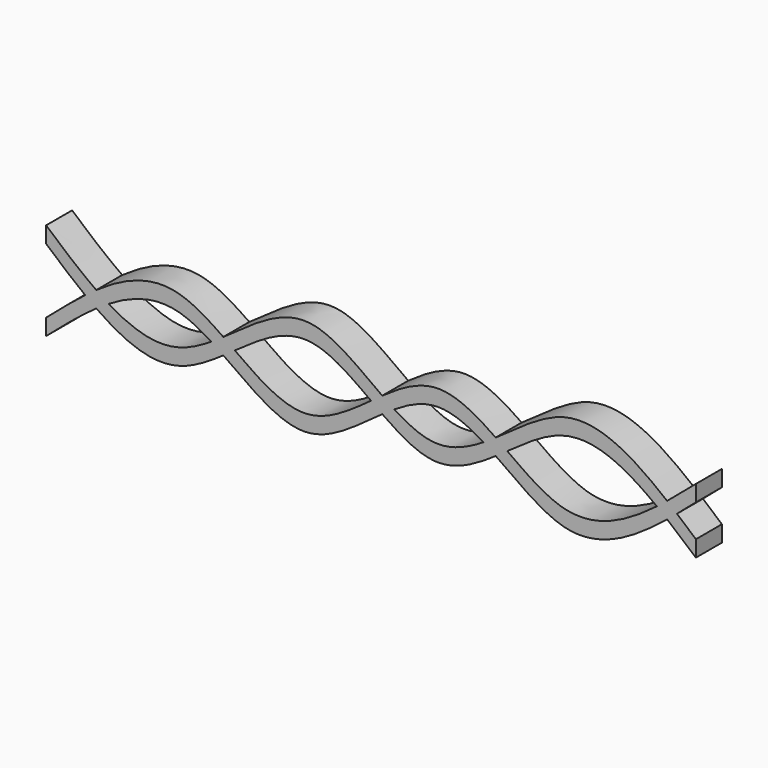
from build123d import *

# Parameters (mm, degrees)
F1_DEPTH = 25.4


with BuildPart() as f1:
    # F0 (on Front) → F1 (new body)
    with BuildSketch(Plane.XZ):
        with BuildLine():
            add(Edge.make_bspline(
                [(-214.7751562029, -6.35), (-211.5570208021, -4.093973735), (-208.3388854013, -1.9667404666), (-205.1207500005, 0)],
                knots=[0.0772142594, 0.0772142594, 0.0772142594, 0.0772142594, 0.0962189961, 0.0962189961, 0.0962189961, 0.0962189961], degree=3))
            add(Edge.make_bspline(
                [(-214.7751562029, -6.35), (-193.9834374686, -20.9257271579), (-160.8792672429, -35.5732524158), (-127.7750970172, -14.9202237117), (-115.4626455258, -6.35)],
                knots=[0.0772142594, 0.0772142594, 0.0772142594, 0.0772142594, 0.2, 0.2727113277, 0.2727113277, 0.2727113277, 0.2727113277], degree=3))
            add(Edge.make_bspline(
                [(-124.933999452, 0), (-121.7768814766, -2.0133370092), (-118.6197635012, -4.1524516602), (-115.4626455258, -6.35)],
                knots=[0.2540669302, 0.2540669302, 0.2540669302, 0.2540669302, 0.2727113277, 0.2727113277, 0.2727113277, 0.2727113277], degree=3))
            add(Edge.make_bspline(
                [(-205.1207500005, 0), (-187.547166667, -10.7399699454), (-160.8182498175, -19.7958733422), (-134.089332968, -5.8384805203), (-124.933999452, 0)],
                knots=[0.0962189961, 0.0962189961, 0.0962189961, 0.0962189961, 0.2, 0.2540669302, 0.2540669302, 0.2540669302, 0.2540669302], degree=3))
        make_face()
        with BuildLine():
            add(Edge.make_bspline(
                [(-214.7751562029, 6.35), (-193.9834374686, 20.9257271579), (-160.8792672429, 35.5732524158), (-127.7750970172, 14.9202237117), (-115.4626455258, 6.35)],
                knots=[0.0772142594, 0.0772142594, 0.0772142594, 0.0772142594, 0.2, 0.2727113277, 0.2727113277, 0.2727113277, 0.2727113277], degree=3))
            add(Edge.make_bspline(
                [(-214.7751562029, 6.35), (-211.5570208021, 4.093973735), (-208.3388854013, 1.9667404666), (-205.1207500005, 0)],
                knots=[0.0772142594, 0.0772142594, 0.0772142594, 0.0772142594, 0.0962189961, 0.0962189961, 0.0962189961, 0.0962189961], degree=3))
            add(Edge.make_bspline(
                [(-205.1207500005, 0), (-187.547166667, 10.7399699454), (-160.8182498175, 19.7958733422), (-134.089332968, 5.8384805203), (-124.933999452, 0)],
                knots=[0.0962189961, 0.0962189961, 0.0962189961, 0.0962189961, 0.2, 0.2540669302, 0.2540669302, 0.2540669302, 0.2540669302], degree=3))
            add(Edge.make_bspline(
                [(-124.933999452, 0), (-121.7768814766, 2.0133370092), (-118.6197635012, 4.1524516602), (-115.4626455258, 6.35)],
                knots=[0.2540669302, 0.2540669302, 0.2540669302, 0.2540669302, 0.2727113277, 0.2727113277, 0.2727113277, 0.2727113277], degree=3))
        make_face()
        with BuildLine():
            add(Edge.make_bspline(
                [(-223.4234286462, 0), (-220.5406711651, 2.2048234714), (-217.657913684, 4.3290854694), (-214.7751562029, 6.35)],
                knots=[0.0601901011, 0.0601901011, 0.0601901011, 0.0601901011, 0.0772142594, 0.0772142594, 0.0772142594, 0.0772142594], degree=3))
            add(Edge.make_bspline(
                [(-223.4234286462, 0), (-220.5406711651, -2.2048234714), (-217.657913684, -4.3290854694), (-214.7751562029, -6.35)],
                knots=[0.0601901011, 0.0601901011, 0.0601901011, 0.0601901011, 0.0772142594, 0.0772142594, 0.0772142594, 0.0772142594], degree=3))
            add(Edge.make_bspline(
                [(-214.7751562029, -6.35), (-211.5570208021, -4.093973735), (-208.3388854013, -1.9667404666), (-205.1207500005, 0)],
                knots=[0.0772142594, 0.0772142594, 0.0772142594, 0.0772142594, 0.0962189961, 0.0962189961, 0.0962189961, 0.0962189961], degree=3))
            add(Edge.make_bspline(
                [(-214.7751562029, 6.35), (-211.5570208021, 4.093973735), (-208.3388854013, 1.9667404666), (-205.1207500005, 0)],
                knots=[0.0772142594, 0.0772142594, 0.0772142594, 0.0772142594, 0.0962189961, 0.0962189961, 0.0962189961, 0.0962189961], degree=3))
        make_face()
        with BuildLine():
            add(Edge.make_bspline(
                [(-254, -25.4), (-243.8078095487, -16.5976537012), (-233.6156190975, -7.7953074024), (-223.4234286462, 0)],
                knots=[0, 0, 0, 0, 0.0601901011, 0.0601901011, 0.0601901011, 0.0601901011], degree=3))
            Line((-254, -25.4), (-254, -38.1))
            add(Edge.make_bspline(
                [(-254, -38.1), (-240.9250520676, -26.807999513), (-227.8501041353, -15.5159990259), (-214.7751562029, -6.35)],
                knots=[0, 0, 0, 0, 0.0772142594, 0.0772142594, 0.0772142594, 0.0772142594], degree=3))
            add(Edge.make_bspline(
                [(-223.4234286462, 0), (-220.5406711651, -2.2048234714), (-217.657913684, -4.3290854694), (-214.7751562029, -6.35)],
                knots=[0.0601901011, 0.0601901011, 0.0601901011, 0.0601901011, 0.0772142594, 0.0772142594, 0.0772142594, 0.0772142594], degree=3))
        make_face()
        with BuildLine():
            add(Edge.make_bspline(
                [(-254, 25.4), (-243.8078095487, 16.5976537012), (-233.6156190975, 7.7953074024), (-223.4234286462, 0)],
                knots=[0, 0, 0, 0, 0.0601901011, 0.0601901011, 0.0601901011, 0.0601901011], degree=3))
            add(Edge.make_bspline(
                [(-223.4234286462, 0), (-220.5406711651, 2.2048234714), (-217.657913684, 4.3290854694), (-214.7751562029, 6.35)],
                knots=[0.0601901011, 0.0601901011, 0.0601901011, 0.0601901011, 0.0772142594, 0.0772142594, 0.0772142594, 0.0772142594], degree=3))
            add(Edge.make_bspline(
                [(-254, 38.1), (-240.9250520676, 26.807999513), (-227.8501041353, 15.5159990259), (-214.7751562029, 6.35)],
                knots=[0, 0, 0, 0, 0.0772142594, 0.0772142594, 0.0772142594, 0.0772142594], degree=3))
            Line((-254, 38.1), (-254, 25.4))
        make_face()
        with BuildLine():
            add(Edge.make_bspline(
                [(-115.4626455258, -6.35), (-112.4696958715, -4.2667229116), (-109.4767462173, -2.1309311697), (-106.4837965631, 0)],
                knots=[0.2727113277, 0.2727113277, 0.2727113277, 0.2727113277, 0.2903862272, 0.2903862272, 0.2903862272, 0.2903862272], degree=3))
            add(Edge.make_bspline(
                [(-115.4626455258, -6.35), (-93.9084303505, -21.3530597976), (-52.4828246794, -55.4224209823), (-11.0572190083, -20.3940403676), (8.8141714876, -6.35)],
                knots=[0.2727113277, 0.2727113277, 0.2727113277, 0.2727113277, 0.4, 0.5173507313, 0.5173507313, 0.5173507313, 0.5173507313], degree=3))
            add(Edge.make_bspline(
                [(0, 0), (2.9380571625, -2.1367688455), (5.8761143251, -4.273537691), (8.8141714876, -6.35)],
                knots=[0.5, 0.5, 0.5, 0.5, 0.5173507313, 0.5173507313, 0.5173507313, 0.5173507313], degree=3))
            add(Edge.make_bspline(
                [(-106.4837965631, 0), (-87.9225310421, -13.2153172678), (-52.4279321877, -38.1294052274), (-16.9333333333, -12.3151515152), (0, 0)],
                knots=[0.2903862272, 0.2903862272, 0.2903862272, 0.2903862272, 0.4, 0.5, 0.5, 0.5, 0.5], degree=3))
        make_face()
        with BuildLine():
            add(Edge.make_bspline(
                [(-115.4626455258, 6.35), (-112.4696958715, 4.2667229116), (-109.4767462173, 2.1309311697), (-106.4837965631, 0)],
                knots=[0.2727113277, 0.2727113277, 0.2727113277, 0.2727113277, 0.2903862272, 0.2903862272, 0.2903862272, 0.2903862272], degree=3))
            add(Edge.make_bspline(
                [(-124.933999452, 0), (-121.7768814766, 2.0133370092), (-118.6197635012, 4.1524516602), (-115.4626455258, 6.35)],
                knots=[0.2540669302, 0.2540669302, 0.2540669302, 0.2540669302, 0.2727113277, 0.2727113277, 0.2727113277, 0.2727113277], degree=3))
            add(Edge.make_bspline(
                [(-124.933999452, 0), (-121.7768814766, -2.0133370092), (-118.6197635012, -4.1524516602), (-115.4626455258, -6.35)],
                knots=[0.2540669302, 0.2540669302, 0.2540669302, 0.2540669302, 0.2727113277, 0.2727113277, 0.2727113277, 0.2727113277], degree=3))
            add(Edge.make_bspline(
                [(-115.4626455258, -6.35), (-112.4696958715, -4.2667229116), (-109.4767462173, -2.1309311697), (-106.4837965631, 0)],
                knots=[0.2727113277, 0.2727113277, 0.2727113277, 0.2727113277, 0.2903862272, 0.2903862272, 0.2903862272, 0.2903862272], degree=3))
        make_face()
        with BuildLine():
            add(Edge.make_bspline(
                [(-115.4626455258, 6.35), (-93.9084303505, 21.3530597976), (-52.4828246794, 55.4224209823), (-11.0572190083, 20.3940403676), (8.8141714876, 6.35)],
                knots=[0.2727113277, 0.2727113277, 0.2727113277, 0.2727113277, 0.4, 0.5173507313, 0.5173507313, 0.5173507313, 0.5173507313], degree=3))
            add(Edge.make_bspline(
                [(-115.4626455258, 6.35), (-112.4696958715, 4.2667229116), (-109.4767462173, 2.1309311697), (-106.4837965631, 0)],
                knots=[0.2727113277, 0.2727113277, 0.2727113277, 0.2727113277, 0.2903862272, 0.2903862272, 0.2903862272, 0.2903862272], degree=3))
            add(Edge.make_bspline(
                [(-106.4837965631, 0), (-87.9225310421, 13.2153172678), (-52.4279321877, 38.1294052274), (-16.9333333333, 12.3151515152), (0, 0)],
                knots=[0.2903862272, 0.2903862272, 0.2903862272, 0.2903862272, 0.4, 0.5, 0.5, 0.5, 0.5], degree=3))
            add(Edge.make_bspline(
                [(0, 0), (2.9380571625, 2.1367688455), (5.8761143251, 4.273537691), (8.8141714876, 6.35)],
                knots=[0.5, 0.5, 0.5, 0.5, 0.5173507313, 0.5173507313, 0.5173507313, 0.5173507313], degree=3))
        make_face()
        with BuildLine():
            add(Edge.make_bspline(
                [(8.8141714876, -6.35), (11.9399480407, -4.1408676244), (15.0657245938, -1.9999942239), (18.1915011468, 0)],
                knots=[0.5173507313, 0.5173507313, 0.5173507313, 0.5173507313, 0.5358100416, 0.5358100416, 0.5358100416, 0.5358100416], degree=3))
            add(Edge.make_bspline(
                [(8.8141714876, -6.35), (22.8094476584, -16.2411157495), (52.3589401975, -34.2359377937), (81.9084327366, -17.0725968822), (97.4626491049, -6.35)],
                knots=[0.5173507313, 0.5173507313, 0.5173507313, 0.5173507313, 0.6, 0.6918556085, 0.6918556085, 0.6918556085, 0.6918556085], degree=3))
            add(Edge.make_bspline(
                [(87.8360827577, 0), (91.0449382067, -1.9976776152), (94.2537936558, -4.1379140537), (97.4626491049, -6.35)],
                knots=[0.6729056747, 0.6729056747, 0.6729056747, 0.6729056747, 0.6918556085, 0.6918556085, 0.6918556085, 0.6918556085], degree=3))
            add(Edge.make_bspline(
                [(18.1915011468, 0), (29.0610007646, -6.9547314348), (52.2758613015, -18.1701405375), (75.4907218384, -7.6856223508), (87.8360827577, 0)],
                knots=[0.5358100416, 0.5358100416, 0.5358100416, 0.5358100416, 0.6, 0.6729056747, 0.6729056747, 0.6729056747, 0.6729056747], degree=3))
        make_face()
        with BuildLine():
            add(Edge.make_bspline(
                [(8.8141714876, 6.35), (22.8094476584, 16.2411157495), (52.3589401975, 34.2359377937), (81.9084327366, 17.0725968822), (97.4626491049, 6.35)],
                knots=[0.5173507313, 0.5173507313, 0.5173507313, 0.5173507313, 0.6, 0.6918556085, 0.6918556085, 0.6918556085, 0.6918556085], degree=3))
            add(Edge.make_bspline(
                [(8.8141714876, 6.35), (11.9399480407, 4.1408676244), (15.0657245938, 1.9999942239), (18.1915011468, 0)],
                knots=[0.5173507313, 0.5173507313, 0.5173507313, 0.5173507313, 0.5358100416, 0.5358100416, 0.5358100416, 0.5358100416], degree=3))
            add(Edge.make_bspline(
                [(18.1915011468, 0), (29.0610007646, 6.9547314348), (52.2758613015, 18.1701405375), (75.4907218384, 7.6856223508), (87.8360827577, 0)],
                knots=[0.5358100416, 0.5358100416, 0.5358100416, 0.5358100416, 0.6, 0.6729056747, 0.6729056747, 0.6729056747, 0.6729056747], degree=3))
            add(Edge.make_bspline(
                [(87.8360827577, 0), (91.0449382067, 1.9976776152), (94.2537936558, 4.1379140537), (97.4626491049, 6.35)],
                knots=[0.6729056747, 0.6729056747, 0.6729056747, 0.6729056747, 0.6918556085, 0.6918556085, 0.6918556085, 0.6918556085], degree=3))
        make_face()
        with BuildLine():
            add(Edge.make_bspline(
                [(8.8141714876, 6.35), (11.9399480407, 4.1408676244), (15.0657245938, 1.9999942239), (18.1915011468, 0)],
                knots=[0.5173507313, 0.5173507313, 0.5173507313, 0.5173507313, 0.5358100416, 0.5358100416, 0.5358100416, 0.5358100416], degree=3))
            add(Edge.make_bspline(
                [(0, 0), (2.9380571625, 2.1367688455), (5.8761143251, 4.273537691), (8.8141714876, 6.35)],
                knots=[0.5, 0.5, 0.5, 0.5, 0.5173507313, 0.5173507313, 0.5173507313, 0.5173507313], degree=3))
            add(Edge.make_bspline(
                [(0, 0), (2.9380571625, -2.1367688455), (5.8761143251, -4.273537691), (8.8141714876, -6.35)],
                knots=[0.5, 0.5, 0.5, 0.5, 0.5173507313, 0.5173507313, 0.5173507313, 0.5173507313], degree=3))
            add(Edge.make_bspline(
                [(8.8141714876, -6.35), (11.9399480407, -4.1408676244), (15.0657245938, -1.9999942239), (18.1915011468, 0)],
                knots=[0.5173507313, 0.5173507313, 0.5173507313, 0.5173507313, 0.5358100416, 0.5358100416, 0.5358100416, 0.5358100416], degree=3))
        make_face()
        with BuildLine():
            add(Edge.make_bspline(
                [(97.4626491049, -6.35), (100.4696982576, -4.2770330882), (103.4767474103, -2.1409697819), (106.4837965631, 0)],
                knots=[0.6918556085, 0.6918556085, 0.6918556085, 0.6918556085, 0.7096137728, 0.7096137728, 0.7096137728, 0.7096137728], degree=3))
            add(Edge.make_bspline(
                [(97.4626491049, -6.35), (115.7750994032, -18.974038256), (160.4462157888, -55.4770957998), (205.1173321744, -27.7010633214), (231.4759982616, -6.35)],
                knots=[0.6918556085, 0.6918556085, 0.6918556085, 0.6918556085, 0.8, 0.9556614139, 0.9556614139, 0.9556614139, 0.9556614139], degree=3))
            add(Edge.make_bspline(
                [(223.4234286462, 0), (226.107618518, -2.0529527266), (228.7918083898, -4.1757508278), (231.4759982616, -6.35)],
                knots=[0.9398098989, 0.9398098989, 0.9398098989, 0.9398098989, 0.9556614139, 0.9556614139, 0.9556614139, 0.9556614139], degree=3))
            add(Edge.make_bspline(
                [(106.4837965631, 0), (121.7891977087, -10.8971951197), (160.7690750698, -38.9739529901), (199.7489524308, -18.1069830447), (223.4234286462, 0)],
                knots=[0.7096137728, 0.7096137728, 0.7096137728, 0.7096137728, 0.8, 0.9398098989, 0.9398098989, 0.9398098989, 0.9398098989], degree=3))
        make_face()
        with BuildLine():
            add(Edge.make_bspline(
                [(97.4626491049, 6.35), (100.4696982576, 4.2770330882), (103.4767474103, 2.1409697819), (106.4837965631, 0)],
                knots=[0.6918556085, 0.6918556085, 0.6918556085, 0.6918556085, 0.7096137728, 0.7096137728, 0.7096137728, 0.7096137728], degree=3))
            add(Edge.make_bspline(
                [(87.8360827577, 0), (91.0449382067, 1.9976776152), (94.2537936558, 4.1379140537), (97.4626491049, 6.35)],
                knots=[0.6729056747, 0.6729056747, 0.6729056747, 0.6729056747, 0.6918556085, 0.6918556085, 0.6918556085, 0.6918556085], degree=3))
            add(Edge.make_bspline(
                [(87.8360827577, 0), (91.0449382067, -1.9976776152), (94.2537936558, -4.1379140537), (97.4626491049, -6.35)],
                knots=[0.6729056747, 0.6729056747, 0.6729056747, 0.6729056747, 0.6918556085, 0.6918556085, 0.6918556085, 0.6918556085], degree=3))
            add(Edge.make_bspline(
                [(97.4626491049, -6.35), (100.4696982576, -4.2770330882), (103.4767474103, -2.1409697819), (106.4837965631, 0)],
                knots=[0.6918556085, 0.6918556085, 0.6918556085, 0.6918556085, 0.7096137728, 0.7096137728, 0.7096137728, 0.7096137728], degree=3))
        make_face()
        with BuildLine():
            add(Edge.make_bspline(
                [(97.4626491049, 6.35), (115.7750994032, 18.974038256), (160.4462157888, 55.4770957998), (205.1173321744, 27.7010633214), (231.4759982616, 6.35)],
                knots=[0.6918556085, 0.6918556085, 0.6918556085, 0.6918556085, 0.8, 0.9556614139, 0.9556614139, 0.9556614139, 0.9556614139], degree=3))
            add(Edge.make_bspline(
                [(97.4626491049, 6.35), (100.4696982576, 4.2770330882), (103.4767474103, 2.1409697819), (106.4837965631, 0)],
                knots=[0.6918556085, 0.6918556085, 0.6918556085, 0.6918556085, 0.7096137728, 0.7096137728, 0.7096137728, 0.7096137728], degree=3))
            add(Edge.make_bspline(
                [(106.4837965631, 0), (121.7891977087, 10.8971951197), (160.7690750698, 38.9739529901), (199.7489524308, 18.1069830447), (223.4234286462, 0)],
                knots=[0.7096137728, 0.7096137728, 0.7096137728, 0.7096137728, 0.8, 0.9398098989, 0.9398098989, 0.9398098989, 0.9398098989], degree=3))
            add(Edge.make_bspline(
                [(223.4234286462, 0), (226.107618518, 2.0529527266), (228.7918083898, 4.1757508278), (231.4759982616, 6.35)],
                knots=[0.9398098989, 0.9398098989, 0.9398098989, 0.9398098989, 0.9556614139, 0.9556614139, 0.9556614139, 0.9556614139], degree=3))
        make_face()
        with BuildLine():
            add(Edge.make_bspline(
                [(231.4759982616, -6.35), (234.0378222269, -4.2748697365), (236.5996461922, -2.1528725416), (239.1614701575, 0)],
                knots=[0.9556614139, 0.9556614139, 0.9556614139, 0.9556614139, 0.9707902956, 0.9707902956, 0.9707902956, 0.9707902956], degree=3))
            add(Edge.make_bspline(
                [(231.4759982616, -6.35), (238.983998841, -12.4316353627), (246.4919994205, -18.9158176814), (254, -25.4)],
                knots=[0.9556614139, 0.9556614139, 0.9556614139, 0.9556614139, 1, 1, 1, 1], degree=3))
            Line((254, -25.4), (254, -12.7))
            add(Edge.make_bspline(
                [(239.1614701575, 0), (244.1076467717, -4.1566040301), (249.0538233858, -8.428302015), (254, -12.7)],
                knots=[0.9707902956, 0.9707902956, 0.9707902956, 0.9707902956, 1, 1, 1, 1], degree=3))
        make_face()
        with BuildLine():
            add(Edge.make_bspline(
                [(231.4759982616, 6.35), (238.983998841, 12.4316353627), (246.4919994205, 18.9158176814), (254, 25.4)],
                knots=[0.9556614139, 0.9556614139, 0.9556614139, 0.9556614139, 1, 1, 1, 1], degree=3))
            add(Edge.make_bspline(
                [(231.4759982616, 6.35), (234.0378222269, 4.2748697365), (236.5996461922, 2.1528725416), (239.1614701575, 0)],
                knots=[0.9556614139, 0.9556614139, 0.9556614139, 0.9556614139, 0.9707902956, 0.9707902956, 0.9707902956, 0.9707902956], degree=3))
            add(Edge.make_bspline(
                [(239.1614701575, 0), (244.1076467717, 4.1566040301), (249.0538233858, 8.428302015), (254, 12.7)],
                knots=[0.9707902956, 0.9707902956, 0.9707902956, 0.9707902956, 1, 1, 1, 1], degree=3))
            Line((254, 12.7), (254, 25.4))
        make_face()
        with BuildLine():
            add(Edge.make_bspline(
                [(231.4759982616, 6.35), (234.0378222269, 4.2748697365), (236.5996461922, 2.1528725416), (239.1614701575, 0)],
                knots=[0.9556614139, 0.9556614139, 0.9556614139, 0.9556614139, 0.9707902956, 0.9707902956, 0.9707902956, 0.9707902956], degree=3))
            add(Edge.make_bspline(
                [(223.4234286462, 0), (226.107618518, 2.0529527266), (228.7918083898, 4.1757508278), (231.4759982616, 6.35)],
                knots=[0.9398098989, 0.9398098989, 0.9398098989, 0.9398098989, 0.9556614139, 0.9556614139, 0.9556614139, 0.9556614139], degree=3))
            add(Edge.make_bspline(
                [(223.4234286462, 0), (226.107618518, -2.0529527266), (228.7918083898, -4.1757508278), (231.4759982616, -6.35)],
                knots=[0.9398098989, 0.9398098989, 0.9398098989, 0.9398098989, 0.9556614139, 0.9556614139, 0.9556614139, 0.9556614139], degree=3))
            add(Edge.make_bspline(
                [(231.4759982616, -6.35), (234.0378222269, -4.2748697365), (236.5996461922, -2.1528725416), (239.1614701575, 0)],
                knots=[0.9556614139, 0.9556614139, 0.9556614139, 0.9556614139, 0.9707902956, 0.9707902956, 0.9707902956, 0.9707902956], degree=3))
        make_face()
    extrude(amount=F1_DEPTH)


solid = f1.part
